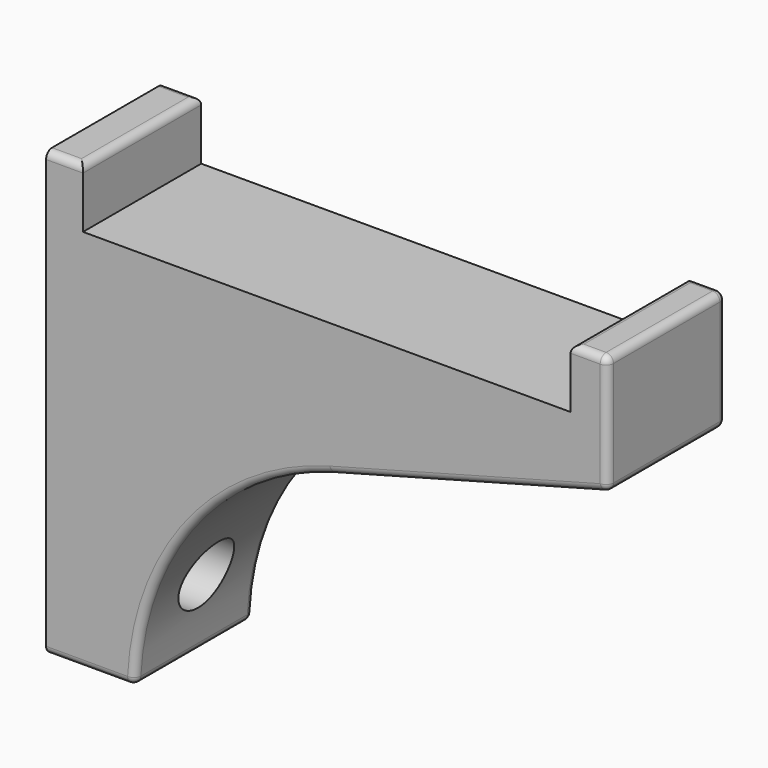
from build123d import *

# Parameters (mm, degrees)
PAD_DEPTH       = 10
SKETCH001_R     = 2.2
POCKET_DEPTH    = 76.001
SKETCH002_R     = 4.4
POCKET001_DEPTH = 72.001
FILLET_R        = 1


with BuildPart() as part:
    # Sketch → Pad (new body, symmetric)
    with BuildSketch(Plane.XZ):
        with BuildLine():
            Line((5, 30), (5, 22))
            Line((5, 22), (71, 22))
            Line((71, 22), (71, 30))
            Line((71, 30), (76, 30))
            Line((76, 30), (76, 14))
            Line((38.674177, 3.998576), (76, 14))
            ThreePointArc((38.674177, 3.998576), (19.66843, -8.553267), (12, -30))
            Line((12, -30), (0, -30))
            Line((0, -30), (0, 30))
            Line((0, 30), (5, 30))
        make_face()
    extrude(amount=PAD_DEPTH, both=True)

    # Sketch001 → Pocket (cut, through all)
    with BuildSketch(Plane.YZ):
        with Locations((0, 3.998576)):
            Circle(SKETCH001_R)
        with Locations((0, -19.998576)):
            Circle(SKETCH001_R)
    extrude(amount=POCKET_DEPTH, mode=Mode.SUBTRACT)

    # Sketch002 → Pocket001 (cut, through all)
    with BuildSketch(Plane.YZ.offset(4)):
        with Locations((0, 3.998576)):
            Circle(SKETCH002_R)
        with Locations((0, -19.998576)):
            Circle(SKETCH002_R)
    extrude(amount=POCKET001_DEPTH, mode=Mode.SUBTRACT)

    # Fillet
    fillet_edges = [part.edges().sort_by_distance(p)[0] for p in [
        (76, 0, 30),
        (76, 0, 14),
        (76, 10, 22),
        (76, -10, 22),
        (73.5, -10, 30),
        (73.5, 10, 30),
        (19.66843, -10, -8.553267),
        (19.66843, 10, -8.553267),
        (12, 0, -30),
        (6, -10, -30),
        (6, 10, -30),
        (2.5, 10, 30),
        (2.5, -10, 30),
        (5, 0, 30),
        (71, 0, 30),
    ]]
    fillet(fillet_edges, radius=FILLET_R)


with BuildPart() as part_1:
    # Body placement: moved
    add(part.part.moved(Location((0, -15, 0))))


solid = part_1.part
